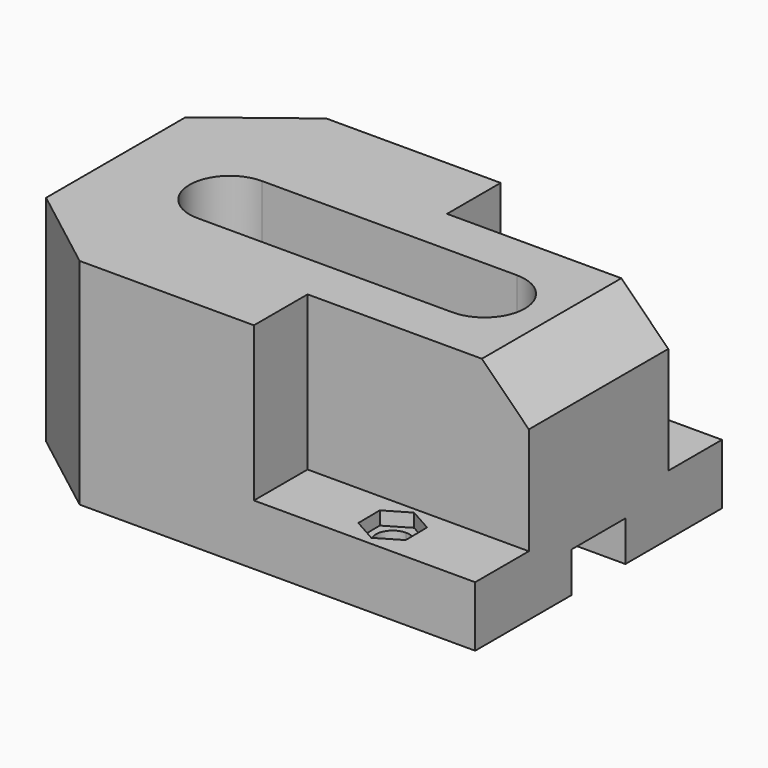
from build123d import *

# Parameters (mm, degrees)
F0_W      = 59
F0_H      = 46
F1_DEPTH  = 32
F2_W      = 10
F2_H      = 6
F3_DEPTH  = 59
F4_W      = 33
F4_H      = 10
F5_DEPTH  = 23
F6_DEPTH  = 32
F8_DEPTH  = 26
F9_W      = 16
F9_H      = 12
F9_W_2    = 22
F10_DEPTH = 26
F12_DEPTH = 2
F13_R     = 2.5
F14_DEPTH = 25


with BuildPart() as f1:
    # F0 (on Top) → F1 (new body)
    with BuildSketch(Plane.XY):
        Rectangle(F0_W, F0_H)
    extrude(amount=F1_DEPTH)

    # F2 (on face) → F3 (cut)
    with BuildSketch(Plane.YZ.offset(29.5)):
        with Locations((0, 3)):
            Rectangle(F2_W, F2_H)
    extrude(amount=-F3_DEPTH, mode=Mode.SUBTRACT)

    # F4 (on face) → F5 (cut)
    with BuildSketch(Plane.XY.offset(32)):
        with Locations((13, -18)):
            Rectangle(F4_W, F4_H)
        with Locations((13, 18)):
            Rectangle(F4_W, F4_H)
    extrude(amount=-F5_DEPTH, mode=Mode.SUBTRACT)

    # F4 (on face) → F6 (join)
    with BuildSketch(Plane.XY.offset(32)):
        Polygon((-42.5, -13), (-29.5, -23), (-29.5, 23), (-42.5, 13), align=None)
    extrude(amount=-F6_DEPTH)

    # F7 (on face) → F8 (cut)
    with BuildSketch(Plane.XZ.offset(13)):
        Polygon((29.5, 25), (29.5, 32), (22.5, 32), align=None)
    extrude(amount=-F8_DEPTH, mode=Mode.SUBTRACT)

    # F9 (on face) → F10 (cut)
    with BuildSketch(Plane.XY.offset(32)):
        with Locations((4.5, 0)):
            Rectangle(F9_W, F9_H)
        with Locations((-14.5, 0)):
            Rectangle(F9_W_2, F9_H)
        with BuildLine():
            ThreePointArc((12.5, -6), (18.5, 0), (12.5, 6))
            Line((12.5, 6), (12.5, -6))
        make_face()
        with BuildLine():
            Line((-25.5, -6), (-25.5, 6))
            ThreePointArc((-25.5, 6), (-31.5, 0), (-25.5, -6))
        make_face()
    extrude(amount=-F10_DEPTH, mode=Mode.SUBTRACT)

    # F11 (on face) → F12 (cut)
    with BuildSketch(Plane.XY.offset(9)):
        Polygon((16.5, -15.719817), (12.979622, -13.734805), (9.500362, -15.791036), (9.54148, -19.832278), (13.061858, -21.817291), (16.541118, -19.76106), align=None)
        Polygon((13.061858, 21.817291), (9.54148, 19.832278), (9.500362, 15.791036), (12.979622, 13.734805), (16.5, 15.719817), (16.541118, 19.76106), align=None)
    extrude(amount=-F12_DEPTH, mode=Mode.SUBTRACT)

    # F13 (on face) → F14 (cut)
    with BuildSketch(Plane.XY.offset(7)):
        with BuildLine():
            ThreePointArc((15.52074, -17.776048), (14.779491, -15.999311), (12.995305, -15.276177))
            Line((12.995305, -15.276177), (13.046175, -20.275918))
            ThreePointArc((13.046175, -20.275918), (14.797477, -19.534799), (15.52074, -17.776048))
        make_face()
        with BuildLine():
            Line((13.046175, -20.275918), (12.995305, -15.276177))
            ThreePointArc((12.995305, -15.276177), (10.52087, -17.801483), (13.046175, -20.275918))
        make_face()
        with Locations((13.02074, 17.776048)):
            Circle(F13_R)
    extrude(amount=-F14_DEPTH, mode=Mode.SUBTRACT)


solid = f1.part
